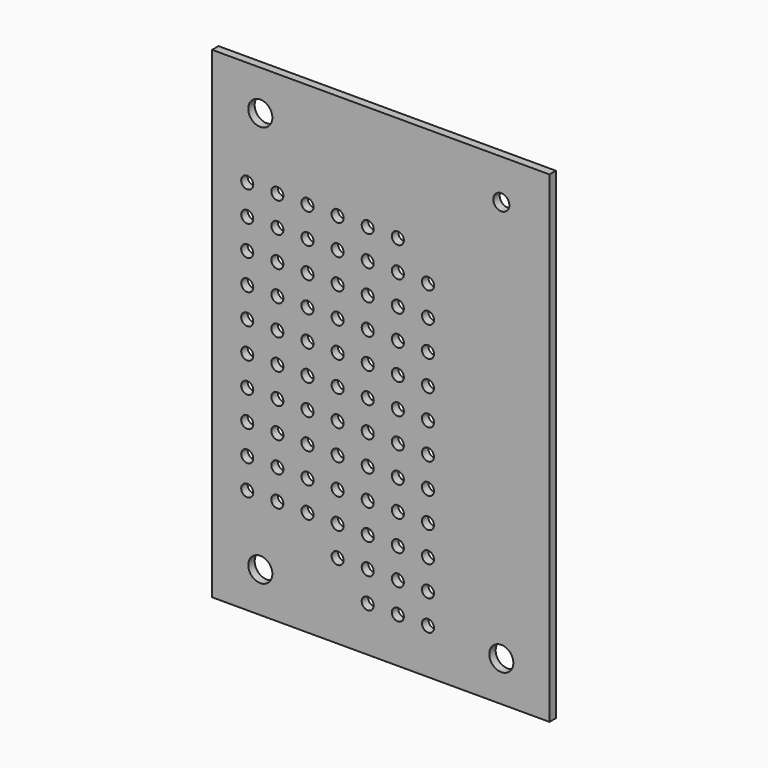
from build123d import *

# Parameters (mm, degrees)
F0_W     = 84
F0_H     = 120
F0_R     = 3
F0_R_2   = 2
F1_DEPTH = 2
F2_R     = 1.5
F3_DEPTH = 2.001
F4_R     = 1.5
F5_DEPTH = 2.001


with BuildPart() as f1:
    # F0 (on Front) → F1 (new body)
    with BuildSketch(Plane.XZ):
        Rectangle(F0_W, F0_H)
        with Locations((-30, -50)):
            Circle(F0_R, mode=Mode.SUBTRACT)
        with Locations((30, -50)):
            Circle(F0_R, mode=Mode.SUBTRACT)
        with Locations((-30, 50)):
            Circle(F0_R, mode=Mode.SUBTRACT)
        with Locations((30, 50)):
            Circle(F0_R_2, mode=Mode.SUBTRACT)
    extrude(amount=F1_DEPTH)

    # F2 (on face) → F3 (cut, through all)
    with BuildSketch(Plane.XZ.offset(2)):
        with Locations((-33.25, 33.75)):
            Circle(F2_R)
        with Locations((-33.25, 26.25)):
            Circle(F2_R)
        with Locations((-33.25, 18.75)):
            Circle(F2_R)
        with Locations((-33.25, 11.25)):
            Circle(F2_R)
        with Locations((-33.25, 3.75)):
            Circle(F2_R)
        with Locations((-33.25, -3.75)):
            Circle(F2_R)
        with Locations((-33.25, -11.25)):
            Circle(F2_R)
        with Locations((-33.25, -18.75)):
            Circle(F2_R)
        with Locations((-33.25, -26.25)):
            Circle(F2_R)
        with Locations((-33.25, -33.75)):
            Circle(F2_R)
        with Locations((-25.75, 33.75)):
            Circle(F2_R)
        with Locations((-25.75, 26.25)):
            Circle(F2_R)
        with Locations((-25.75, 18.75)):
            Circle(F2_R)
        with Locations((-25.75, 11.25)):
            Circle(F2_R)
        with Locations((-25.75, 3.75)):
            Circle(F2_R)
        with Locations((-25.75, -3.75)):
            Circle(F2_R)
        with Locations((-25.75, -11.25)):
            Circle(F2_R)
        with Locations((-25.75, -18.75)):
            Circle(F2_R)
        with Locations((-25.75, -26.25)):
            Circle(F2_R)
        with Locations((-25.75, -33.75)):
            Circle(F2_R)
        with Locations((-18.25, 33.75)):
            Circle(F2_R)
        with Locations((-18.25, 26.25)):
            Circle(F2_R)
        with Locations((-18.25, 18.75)):
            Circle(F2_R)
        with Locations((-18.25, 11.25)):
            Circle(F2_R)
        with Locations((-18.25, 3.75)):
            Circle(F2_R)
        with Locations((-18.25, -3.75)):
            Circle(F2_R)
        with Locations((-18.25, -11.25)):
            Circle(F2_R)
        with Locations((-18.25, -18.75)):
            Circle(F2_R)
        with Locations((-18.25, -26.25)):
            Circle(F2_R)
        with Locations((-18.25, -33.75)):
            Circle(F2_R)
        with Locations((-10.75, 33.75)):
            Circle(F2_R)
        with Locations((-10.75, 26.25)):
            Circle(F2_R)
        with Locations((-10.75, 18.75)):
            Circle(F2_R)
        with Locations((-10.75, 11.25)):
            Circle(F2_R)
        with Locations((-10.75, 3.75)):
            Circle(F2_R)
        with Locations((-10.75, -3.75)):
            Circle(F2_R)
        with Locations((-10.75, -11.25)):
            Circle(F2_R)
        with Locations((-10.75, -18.75)):
            Circle(F2_R)
        with Locations((-10.75, -26.25)):
            Circle(F2_R)
        with Locations((-10.75, -33.75)):
            Circle(F2_R)
        with Locations((-3.25, 33.75)):
            Circle(F2_R)
        with Locations((-3.25, 26.25)):
            Circle(F2_R)
        with Locations((-3.25, 18.75)):
            Circle(F2_R)
        with Locations((-3.25, 11.25)):
            Circle(F2_R)
        with Locations((-3.25, 3.75)):
            Circle(F2_R)
        with Locations((-3.25, -3.75)):
            Circle(F2_R)
        with Locations((-3.25, -11.25)):
            Circle(F2_R)
        with Locations((-3.25, -18.75)):
            Circle(F2_R)
        with Locations((-3.25, -26.25)):
            Circle(F2_R)
        with Locations((-3.25, -33.75)):
            Circle(F2_R)
        with Locations((4.25, 33.75)):
            Circle(F2_R)
        with Locations((4.25, 26.25)):
            Circle(F2_R)
        with Locations((4.25, 18.75)):
            Circle(F2_R)
        with Locations((4.25, 11.25)):
            Circle(F2_R)
        with Locations((4.25, 3.75)):
            Circle(F2_R)
        with Locations((4.25, -3.75)):
            Circle(F2_R)
        with Locations((4.25, -11.25)):
            Circle(F2_R)
        with Locations((4.25, -18.75)):
            Circle(F2_R)
        with Locations((4.25, -26.25)):
            Circle(F2_R)
        with Locations((4.25, -33.75)):
            Circle(F2_R)
        with Locations((11.75, 26.25)):
            Circle(F2_R)
        with Locations((11.75, 18.75)):
            Circle(F2_R)
        with Locations((11.75, 11.25)):
            Circle(F2_R)
        with Locations((11.75, 3.75)):
            Circle(F2_R)
        with Locations((11.75, -3.75)):
            Circle(F2_R)
        with Locations((11.75, -11.25)):
            Circle(F2_R)
        with Locations((11.75, -18.75)):
            Circle(F2_R)
        with Locations((11.75, -26.25)):
            Circle(F2_R)
        with Locations((11.75, -33.75)):
            Circle(F2_R)
    extrude(amount=-F3_DEPTH, mode=Mode.SUBTRACT)

    # F4 (on face) → F5 (cut, through all)
    with BuildSketch(Plane.XZ.offset(2)):
        with BuildLine():
            ThreePointArc((13.25, -41.25), (12.81066, -40.18934), (11.75, -39.75))
            Line((11.75, -39.75), (11.75, -42.75))
            ThreePointArc((11.75, -42.75), (12.81066, -42.31066), (13.25, -41.25))
        make_face()
        with BuildLine():
            Line((11.75, -42.75), (11.75, -39.75))
            ThreePointArc((11.75, -39.75), (10.25, -41.25), (11.75, -42.75))
        make_face()
        with Locations((11.75, -48.75)):
            Circle(F4_R)
        with Locations((4.25, -41.25)):
            Circle(F4_R)
        with Locations((4.25, -48.75)):
            Circle(F4_R)
        with Locations((-3.25, -41.25)):
            Circle(F4_R)
        with Locations((-3.25, -48.75)):
            Circle(F4_R)
        with Locations((-10.75, -41.25)):
            Circle(F4_R)
    extrude(amount=-F5_DEPTH, mode=Mode.SUBTRACT)


solid = f1.part
